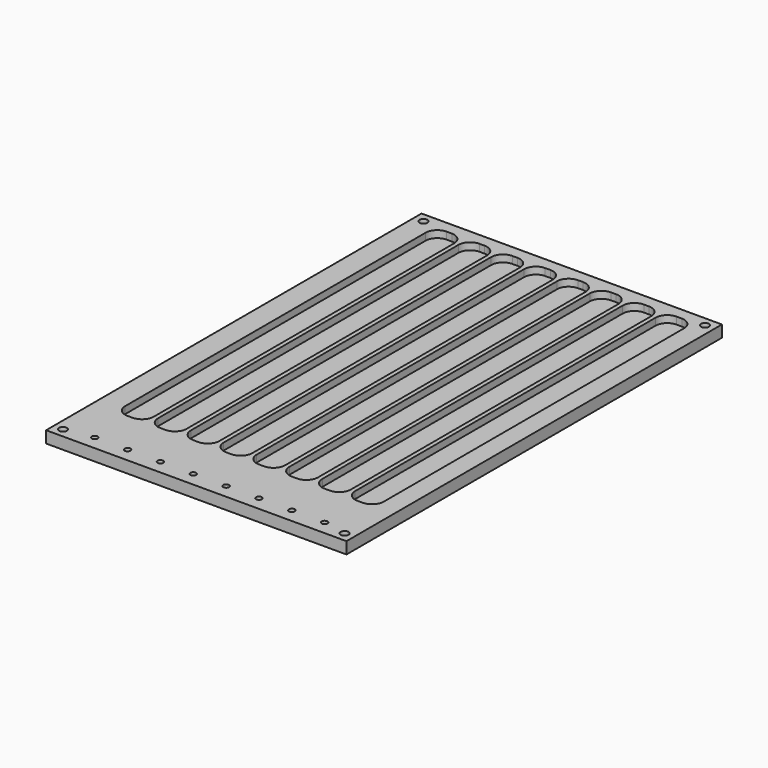
from build123d import *

# Parameters (mm, degrees)
F0_W     = 128
F0_H     = 200
F1_DEPTH = 5
F2_R     = 1.25
F2_R_2   = 1.7
F3_DEPTH = 25
F5_DEPTH = 3


with BuildPart() as f1:
    # F0 (on Top) → F1 (new body)
    with BuildSketch(Plane.XY):
        with Locations((64, 100)):
            Rectangle(F0_W, F0_H)
    extrude(amount=F1_DEPTH)

    # F2 (on face) → F3 (cut)
    with BuildSketch(Plane.XY.offset(5)):
        with Locations((113.915, 6)):
            Circle(F2_R)
        with Locations((4, 196)):
            Circle(F2_R_2)
        with Locations((124, 196)):
            Circle(F2_R_2)
        with Locations((4, 4)):
            Circle(F2_R_2)
        with Locations((124, 4)):
            Circle(F2_R_2)
        with Locations((43.915, 6)):
            Circle(F2_R)
        with Locations((85.915, 6)):
            Circle(F2_R)
        with Locations((71.915, 6)):
            Circle(F2_R)
        with Locations((29.915, 6)):
            Circle(F2_R)
        with Locations((15.915, 6)):
            Circle(F2_R)
        with Locations((57.915, 6)):
            Circle(F2_R)
        with Locations((99.915, 6)):
            Circle(F2_R)
    extrude(amount=-F3_DEPTH, mode=Mode.SUBTRACT)

    # F4 (on face) → F5 (cut)
    with BuildSketch(Plane.XY.offset(5)):
        with BuildLine():
            ThreePointArc((119.9, 190), (118.435534, 193.535534), (114.9, 195))
            Line((114.9, 195), (112.7, 195))
            ThreePointArc((112.7, 195), (109.164466, 193.535534), (107.7, 190))
            Line((107.7, 190), (107.7, 30))
            ThreePointArc((107.7, 30), (109.164466, 26.464466), (112.7, 25))
            Line((112.7, 25), (114.9, 25))
            ThreePointArc((114.9, 25), (118.435534, 26.464466), (119.9, 30))
            Line((119.9, 30), (119.9, 190))
        make_face()
        with BuildLine():
            ThreePointArc((105.9, 190), (104.435534, 193.535534), (100.9, 195))
            Line((100.9, 195), (98.7, 195))
            ThreePointArc((98.7, 195), (95.164466, 193.535534), (93.7, 190))
            Line((93.7, 190), (93.7, 30))
            ThreePointArc((93.7, 30), (95.164466, 26.464466), (98.7, 25))
            Line((98.7, 25), (100.9, 25))
            ThreePointArc((100.9, 25), (104.435534, 26.464466), (105.9, 30))
            Line((105.9, 30), (105.9, 190))
        make_face()
        with BuildLine():
            Line((86.9, 195), (84.7, 195))
            ThreePointArc((84.7, 195), (81.164466, 193.535534), (79.7, 190))
            Line((79.7, 190), (79.7, 30))
            ThreePointArc((79.7, 30), (81.164466, 26.464466), (84.7, 25))
            Line((84.7, 25), (86.9, 25))
            ThreePointArc((86.9, 25), (90.435534, 26.464466), (91.9, 30))
            Line((91.9, 30), (91.9, 190))
            ThreePointArc((91.9, 190), (90.435534, 193.535534), (86.9, 195))
        make_face()
        with BuildLine():
            Line((72.9, 195), (70.7, 195))
            ThreePointArc((70.7, 195), (67.164466, 193.535534), (65.7, 190))
            Line((65.7, 190), (65.7, 30))
            ThreePointArc((65.7, 30), (67.164466, 26.464466), (70.7, 25))
            Line((70.7, 25), (72.9, 25))
            ThreePointArc((72.9, 25), (76.435534, 26.464466), (77.9, 30))
            Line((77.9, 30), (77.9, 190))
            ThreePointArc((77.9, 190), (76.435534, 193.535534), (72.9, 195))
        make_face()
        with BuildLine():
            Line((58.9, 195), (56.7, 195))
            ThreePointArc((56.7, 195), (53.164466, 193.535534), (51.7, 190))
            Line((51.7, 190), (51.7, 30))
            ThreePointArc((51.7, 30), (53.164466, 26.464466), (56.7, 25))
            Line((56.7, 25), (58.9, 25))
            ThreePointArc((58.9, 25), (62.435534, 26.464466), (63.9, 30))
            Line((63.9, 30), (63.9, 190))
            ThreePointArc((63.9, 190), (62.435534, 193.535534), (58.9, 195))
        make_face()
        with BuildLine():
            Line((44.9, 195), (42.7, 195))
            ThreePointArc((42.7, 195), (39.164466, 193.535534), (37.7, 190))
            Line((37.7, 190), (37.7, 30))
            ThreePointArc((37.7, 30), (39.164466, 26.464466), (42.7, 25))
            Line((42.7, 25), (44.9, 25))
            ThreePointArc((44.9, 25), (48.435534, 26.464466), (49.9, 30))
            Line((49.9, 30), (49.9, 190))
            ThreePointArc((49.9, 190), (48.435534, 193.535534), (44.9, 195))
        make_face()
        with BuildLine():
            Line((30.9, 195), (28.7, 195))
            ThreePointArc((28.7, 195), (25.164466, 193.535534), (23.7, 190))
            Line((23.7, 190), (23.7, 30))
            ThreePointArc((23.7, 30), (25.164466, 26.464466), (28.7, 25))
            Line((28.7, 25), (30.9, 25))
            ThreePointArc((30.9, 25), (34.435534, 26.464466), (35.9, 30))
            Line((35.9, 30), (35.9, 190))
            ThreePointArc((35.9, 190), (34.435534, 193.535534), (30.9, 195))
        make_face()
        with BuildLine():
            Line((16.9, 195), (14.7, 195))
            ThreePointArc((14.7, 195), (11.164466, 193.535534), (9.7, 190))
            Line((9.7, 190), (9.7, 30))
            ThreePointArc((9.7, 30), (11.164466, 26.464466), (14.7, 25))
            Line((14.7, 25), (16.9, 25))
            ThreePointArc((16.9, 25), (20.435534, 26.464466), (21.9, 30))
            Line((21.9, 30), (21.9, 190))
            ThreePointArc((21.9, 190), (20.435534, 193.535534), (16.9, 195))
        make_face()
    extrude(amount=-F5_DEPTH, mode=Mode.SUBTRACT)


solid = f1.part
